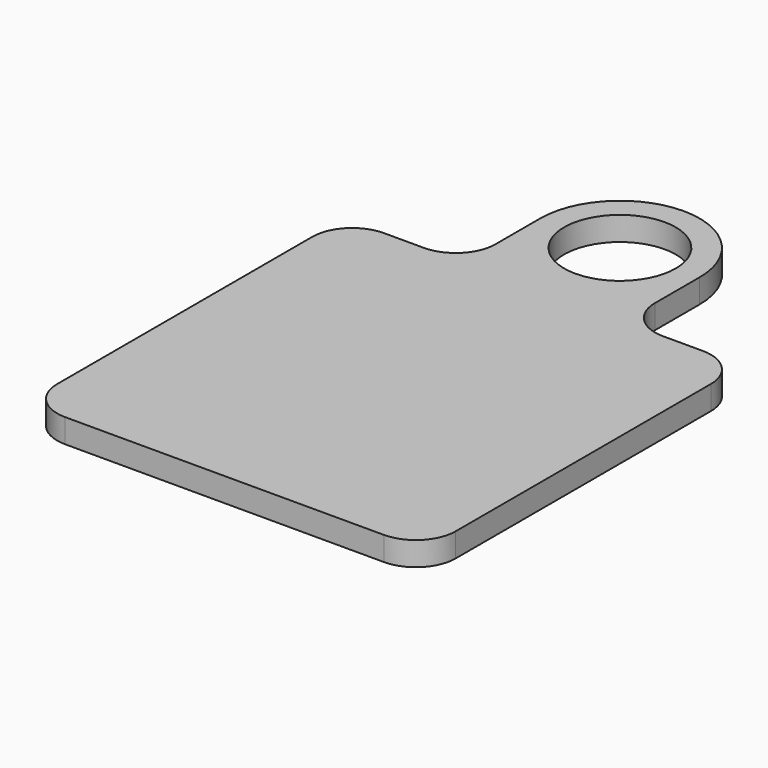
from build123d import *

# Parameters (mm, degrees)
F1_DEPTH = 3


with BuildPart() as f1:
    # F0 (on Top) → F1 (new body)
    with BuildSketch(Plane.XY):
        with BuildLine():
            Line((-20, -25), (20, -25))
            ThreePointArc((20, -25), (23.535534, -23.535534), (25, -20))
            Line((25, -20), (25, 20))
            ThreePointArc((25, 20), (23.535534, 23.535534), (20, 25))
            Line((20, 25), (15, 25))
            ThreePointArc((15, 25), (11.464466, 26.464466), (10, 30))
            Line((10, 30), (10, 37))
            ThreePointArc((10, 37), (0, 47), (-10, 37))
            Line((-10, 37), (-10, 30))
            ThreePointArc((-10, 30), (-11.464466, 26.464466), (-15, 25))
            Line((-15, 25), (-20, 25))
            ThreePointArc((-20, 25), (-23.535534, 23.535534), (-25, 20))
            Line((-25, 20), (-25, -20))
            ThreePointArc((-25, -20), (-23.535534, -23.535534), (-20, -25))
        make_face()
        with BuildLine():
            ThreePointArc((0, 30), (-4.949747, 41.949747), (7, 37))
            ThreePointArc((7, 37), (4.949747, 32.050253), (0, 30))
        make_face(mode=Mode.SUBTRACT)
    extrude(amount=F1_DEPTH)


solid = f1.part
